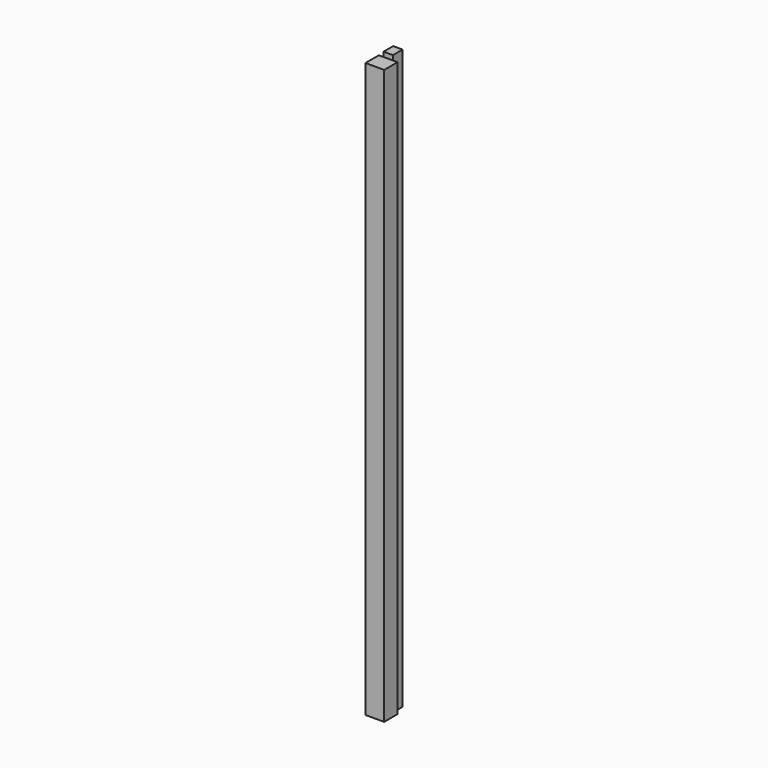
from build123d import *

# Parameters (mm, degrees)
F1_DEPTH      = 2355.85
F2_W          = 68.2625
F2_H          = 19.05
F3_DEPTH      = 40.2363303725
F3_DEPTH_BACK = 35.9656696275


with BuildPart() as f1:
    # F0 (on Top) → F1 (new body)
    with BuildSketch(Plane.XY):
        Polygon((16.9146696275, -12.5172607846), (16.9146696275, 36.6952392154), (-21.1853303725, 36.6952392154), (-21.1853303725, -12.5172607846), (-40.2353303725, -12.5172607846), (-40.2353303725, -80.7797607846), (35.9646696275, -80.7797607846), (35.9646696275, -12.5172607846), align=None)
    extrude(amount=F1_DEPTH)

    # F2 (on Right) → F3 (cut, two sides)
    with BuildSketch(Plane.YZ) as f3_sk:
        with Locations((-46.6485107846, 2346.325)):
            Rectangle(F2_W, F2_H)
    extrude(amount=-F3_DEPTH, mode=Mode.SUBTRACT)
    extrude(f3_sk.sketch, amount=F3_DEPTH_BACK, mode=Mode.SUBTRACT)


solid = f1.part
